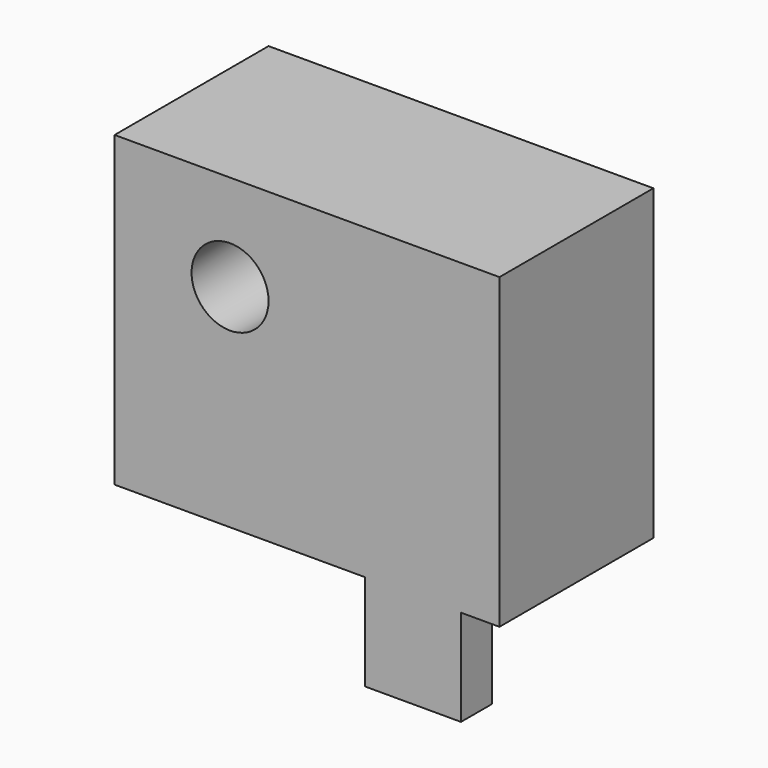
from build123d import *

# Parameters (mm, degrees)
SKETCH001_W  = 100
SKETCH001_H  = 80
PAD_DEPTH    = 50
SKETCH_R     = 10
POCKET_DEPTH = 20
SKETCH002_W  = 25
SKETCH002_H  = 50
PAD001_DEPTH = 10


with BuildPart() as part:
    # Sketch001 → Pad (new body)
    with BuildSketch(Plane.XZ):
        Rectangle(SKETCH001_W, SKETCH001_H)
    extrude(amount=-PAD_DEPTH)

    # Sketch → Pocket (cut)
    with BuildSketch(Plane.XZ):
        with Locations((-20, 15)):
            Circle(SKETCH_R)
    extrude(amount=-POCKET_DEPTH, mode=Mode.SUBTRACT)

    # Sketch002 → Pad001 (join)
    with BuildSketch(Plane.XZ):
        with Locations((27.5, -40)):
            Rectangle(SKETCH002_W, SKETCH002_H)
    extrude(amount=-PAD001_DEPTH)


solid = part.part
